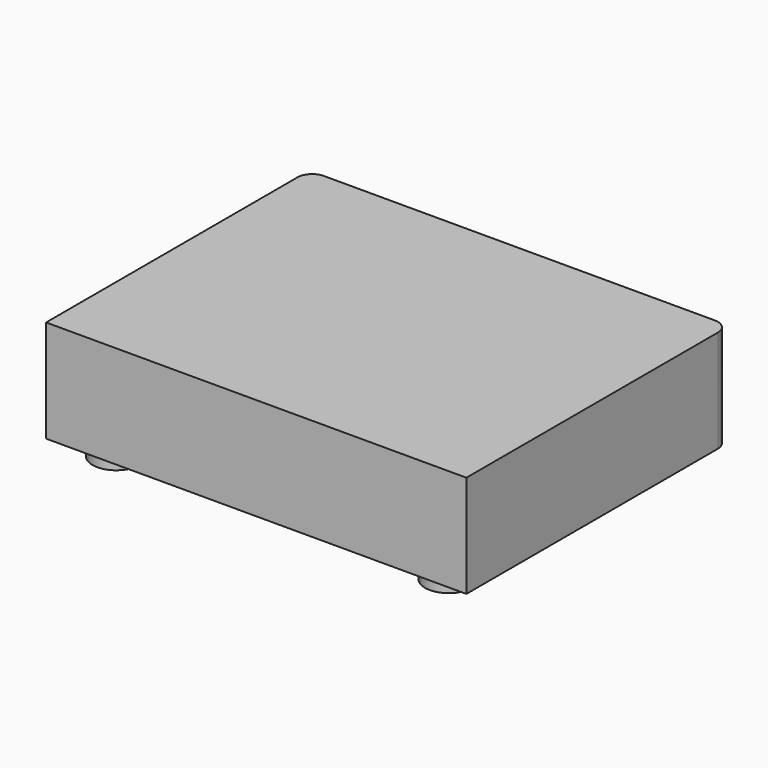
from build123d import *

# Parameters (mm, degrees)
F1_DEPTH = 28
F2_R     = 6.5
F3_DEPTH = 4


with BuildPart() as f1:
    # F0 (on Top) → F1 (new body)
    with BuildSketch(Plane.XY):
        with BuildLine():
            Line((53.5, 90), (-53.5, 90))
            ThreePointArc((-53.5, 90), (-56.328427, 88.828427), (-57.5, 86))
            Line((-57.5, 86), (-57.5, 0))
            Line((-57.5, 0), (57.5, 0))
            Line((57.5, 0), (57.5, 86))
            ThreePointArc((57.5, 86), (56.328427, 88.828427), (53.5, 90))
        make_face()
    extrude(amount=F1_DEPTH)

    # F2 (on face) → F3 (join)
    with BuildSketch(Plane(origin=(0, 0, 0), x_dir=(1, 0, 0), z_dir=(0, 0, -1))):
        with Locations((-45.5, -9)):
            Circle(F2_R)
        with Locations((-43.75, -75.977142)):
            Circle(F2_R)
        with Locations((45.5, -9)):
            Circle(F2_R)
        with Locations((43.75, -75.977142)):
            Circle(F2_R)
    extrude(amount=F3_DEPTH)


solid = f1.part
